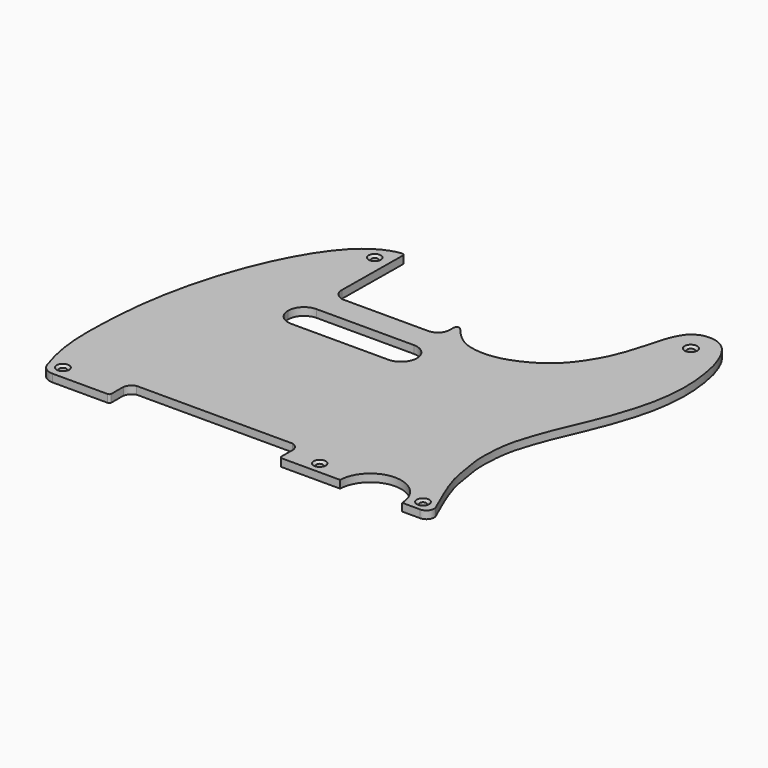
from build123d import *

# Parameters (mm, degrees)
F0_R       = 1.7137957533
F0_R_2     = 1.6034906091
F0_R_3     = 1.685614788
F0_R_4     = 1.6570388641
F0_R_5     = 1.7691617442
F1_DEPTH   = 4
F2_SIZE2   = 1.5
F2_SIZE    = 1
F2_2_SIZE2 = 1.5
F2_2_SIZE  = 1
F2_3_SIZE2 = 1.5
F2_3_SIZE  = 1
F2_4_SIZE2 = 1.5
F2_4_SIZE  = 1
F2_5_SIZE2 = 1.5
F2_5_SIZE  = 1


with BuildPart() as f1:
    # F0 (on Top) → F1 (new body)
    with BuildSketch(Plane.XY):
        with BuildLine():
            Line((-206.4548621972, 4.5668855309), (-178.0181527138, 4.5668855309))
            ThreePointArc((-178.0181527138, 4.5668855309), (-177.2946106698, 4.8149329067), (-176.8754422665, 5.45472853))
            Line((-176.8754422665, 5.45472853), (-176.8754422665, 13.292837158))
            ThreePointArc((-176.8754422665, 13.292837158), (-175.6314199114, 15.8560897894), (-173.2141780447, 17.3643329495))
            Line((-173.2141780447, 17.3643329495), (-133.0140852455, 17.3643329495))
            Line((-133.0140852455, 17.3643329495), (-92.8139924463, 17.3643329495))
            ThreePointArc((-92.8139924463, 17.3643329495), (-90.4231515022, 15.9229215382), (-89.2415046692, 13.3935939521))
            Line((-89.2415046692, 13.3935939521), (-89.2415046692, 5.8930651285))
            ThreePointArc((-89.2415046692, 5.8930651285), (-89.0400994317, 5.1339188794), (-88.4888599025, 4.5744529925))
            Line((-88.4888599025, 4.5744529925), (-58.0529485365, 4.5744529925))
            ThreePointArc((-58.0529485365, 4.5744529925), (-42.0373054221, 20.06691348), (-26.0216623078, 4.5744529925))
            Line((-26.0216623078, 4.5744529925), (-16.7578458786, 4.5744529925))
            ThreePointArc((-16.7578458786, 4.5744529925), (-13.5903709431, 6.1203055895), (-12.8601361066, 9.5683941618))
            add(Edge.make_bspline(
                [(-12.8601361066, 9.5683941618), (-14.4419394883, 13.153197368), (-17.7583873794, 20.6691839759), (-23.1955089468, 33.9241487747), (-24.7245843187, 46.0156253183), (-26.241283277, 53.3880164759), (-25.5181145548, 69.1102297233), (-22.8548176135, 78.4720421574), (-18.9932861428, 90.0249281337), (-13.3524059023, 102.8557382885), (-8.6807006404, 113.9152927053), (-4.6731289799, 125.9323734541), (-1.9004218024, 136.2590604635), (-0.5124121995, 145.6928944313), (0.0160125721, 154.6658811388), (-0.3196757003, 161.110374556), (-0.9789516351, 167.334926556), (-2.4137248416, 175.0513102078), (-3.6235332733, 179.0663742562), (-6.0973095505, 185.2799630355), (-9.0680488733, 189.8163898599), (-11.8279621528, 192.2895722469), (-15.0580662208, 193.985526289), (-17.7995823511, 194.4863049572), (-19.6246218708, 194.4680962646), (-22.2582546575, 194.28576931), (-23.8843015475, 193.728652156), (-26.7182688502, 192.2427740805), (-28.9690041252, 190.0839219996), (-31.7159778253, 184.9987721733), (-33.6303540491, 178.9658244394), (-36.1317893146, 169.0161004986), (-40.6353026181, 155.5913803205), (-49.2506530573, 142.2531836781), (-58.2765490204, 134.112360818), (-71.5436824587, 127.680983456), (-82.0391662971, 126.4135894599), (-89.7132365456, 127.5552865106), (-94.3522170294, 129.6810139803), (-97.8612720312, 132.5194831553), (-100.2084739021, 134.773157247), (-101.4958874209, 136.5264559993), (-101.9604951143, 137.0353996754)],
                knots=[0, 0, 0, 0, 0.0315757342, 0.0662127675, 0.0973126387, 0.122597542, 0.1579570967, 0.1868044469, 0.2181409195, 0.2522233071, 0.2838918337, 0.316087422, 0.345793341, 0.3738810624, 0.4009972207, 0.4238391162, 0.4467872305, 0.4719020696, 0.4908037559, 0.5140691381, 0.5353003415, 0.5526119548, 0.5698454963, 0.5847406769, 0.5971344449, 0.6115554213, 0.6236534888, 0.6394443619, 0.655544576, 0.6769073055, 0.6998133256, 0.728609185, 0.7631329869, 0.7990488516, 0.8307940294, 0.8652917163, 0.894862341, 0.9196874704, 0.9400215292, 0.9590693586, 0.9757243561, 0.990658127, 0.990658127, 0.990658127, 0.990658127], degree=3))
            add(Edge.make_bspline(
                [(-102.7484023558, 137.7433848054), (-102.4016484053, 137.4658046821), (-102.116368464, 137.1652926106), (-101.9604951143, 137.0353996754)],
                knots=[2.2870356705, 2.2870356705, 2.2870356705, 2.2870356705, 3.2981932163, 3.2981932163, 3.2981932163, 3.2981932163], degree=3))
            add(Edge.make_bspline(
                [(-105.2586883307, 137.0353996754), (-104.6314630788, 138.8817321752), (-103.532690281, 138.3712154001), (-102.7484023558, 137.7433848054)],
                knots=[0, 0, 0, 0, 2.2870356705, 2.2870356705, 2.2870356705, 2.2870356705], degree=3))
            Line((-105.2586883307, 137.0353996754), (-105.2586883307, 134.3867480755))
            ThreePointArc((-105.2586883307, 134.3867480755), (-107.0526037177, 129.9854572787), (-111.4402115345, 128.1583309174))
            Line((-111.4402115345, 128.1583309174), (-154.9625843763, 128.1583309174))
            ThreePointArc((-154.9625843763, 128.1583309174), (-159.2411314143, 130.0371525939), (-160.9690189362, 134.3788504601))
            Line((-160.9690189362, 134.3788504601), (-160.5646806861, 173.3625012135))
            add(Edge.make_bspline(
                [(-162.7825945616, 174.3203997612), (-162.2442901134, 174.3634641171), (-161.4137651508, 174.4625987693), (-160.7370525599, 173.9974319935), (-160.5646806861, 173.3625012135)],
                knots=[0, 0, 0, 0, 0.503055423, 1, 1, 1, 1], degree=3))
            add(Edge.make_bspline(
                [(-217.3868478098, 60.6602545923), (-214.5885273326, 104.2862519693), (-191.1178872443, 161.6993073051), (-169.6297675371, 173.0930805206), (-162.7825945616, 174.3203997612)],
                knots=[0, 0, 0, 0, 0.6716149602, 1, 1, 1, 1], degree=3))
            add(Edge.make_bspline(
                [(-212.9089032328, 9.2512788207), (-219.624504447, 28.2878503203), (-218.1405937576, 43.9638467883), (-217.3868478098, 60.6602545923)],
                knots=[0, 0, 0, 0, 51.6036314373, 51.6036314373, 51.6036314373, 51.6036314373], degree=3))
            ThreePointArc((-212.9089032328, 9.2512788207), (-210.4422857445, 5.861417718), (-206.4548621972, 4.5668855309))
        make_face()
        with Locations((-206.4548621972, 11.3551911074)):
            Circle(F0_R, mode=Mode.SUBTRACT)
        with Locations((-73.4573453665, 10.6646250933)):
            Circle(F0_R_2, mode=Mode.SUBTRACT)
        with Locations((-19.9580665376, 10.3868395781)):
            Circle(F0_R_3, mode=Mode.SUBTRACT)
        with BuildLine():
            Line((-108.3676440611, 98.5609218478), (-158.4595369205, 98.5609218478))
            ThreePointArc((-158.4595369205, 98.5609218478), (-164.2500343517, 100.9594244167), (-166.6485369205, 106.7499218478))
            Line((-166.6485369205, 106.7499218478), (-166.6485369205, 106.7501978979))
            ThreePointArc((-166.6485369205, 106.7501978979), (-164.2500343517, 112.540695329), (-158.4595369205, 114.9391978979))
            Line((-158.4595369205, 114.9391978979), (-108.3676440611, 114.9391978979))
            ThreePointArc((-108.3676440611, 114.9391978979), (-102.57714663, 112.540695329), (-100.1786440611, 106.7501978979))
            Line((-100.1786440611, 106.7501978979), (-100.1786440611, 106.7499218478))
            ThreePointArc((-100.1786440611, 106.7499218478), (-102.57714663, 100.9594244167), (-108.3676440611, 98.5609218478))
        make_face(mode=Mode.SUBTRACT)
        with Locations((-168.3000388534, 164.6790622287)):
            Circle(F0_R_4, mode=Mode.SUBTRACT)
        with Locations((-19.3487956989, 182.3857604731)):
            Circle(F0_R_5, mode=Mode.SUBTRACT)
    extrude(amount=F1_DEPTH)

    # F2
    f2_edges = [f1.edges().sort_by_distance(p)[0] for p in [
        (-169.957078, 164.679062, 4),
    ]]
    f2_side = f1.faces().sort_by_distance((-169.957078, 164.679062, 2))[0]
    chamfer(f2_edges, length=F2_SIZE, length2=F2_SIZE2, reference=f2_side)

    # F2#2
    f2_2_edges = [f1.edges().sort_by_distance(p)[0] for p in [
        (-21.117957, 182.38576, 4),
    ]]
    f2_2_side = f1.faces().sort_by_distance((-21.117957, 182.38576, 2))[0]
    chamfer(f2_2_edges, length=F2_2_SIZE, length2=F2_2_SIZE2, reference=f2_2_side)

    # F2#3
    f2_3_edges = [f1.edges().sort_by_distance(p)[0] for p in [
        (-21.643681, 10.38684, 4),
    ]]
    f2_3_side = f1.faces().sort_by_distance((-21.643681, 10.38684, 2))[0]
    chamfer(f2_3_edges, length=F2_3_SIZE, length2=F2_3_SIZE2, reference=f2_3_side)

    # F2#4
    f2_4_edges = [f1.edges().sort_by_distance(p)[0] for p in [
        (-75.060836, 10.664625, 4),
    ]]
    f2_4_side = f1.faces().sort_by_distance((-75.060836, 10.664625, 2))[0]
    chamfer(f2_4_edges, length=F2_4_SIZE, length2=F2_4_SIZE2, reference=f2_4_side)

    # F2#5
    f2_5_edges = [f1.edges().sort_by_distance(p)[0] for p in [
        (-208.168658, 11.355191, 4),
    ]]
    f2_5_side = f1.faces().sort_by_distance((-208.168658, 11.355191, 2))[0]
    chamfer(f2_5_edges, length=F2_5_SIZE, length2=F2_5_SIZE2, reference=f2_5_side)


solid = f1.part
